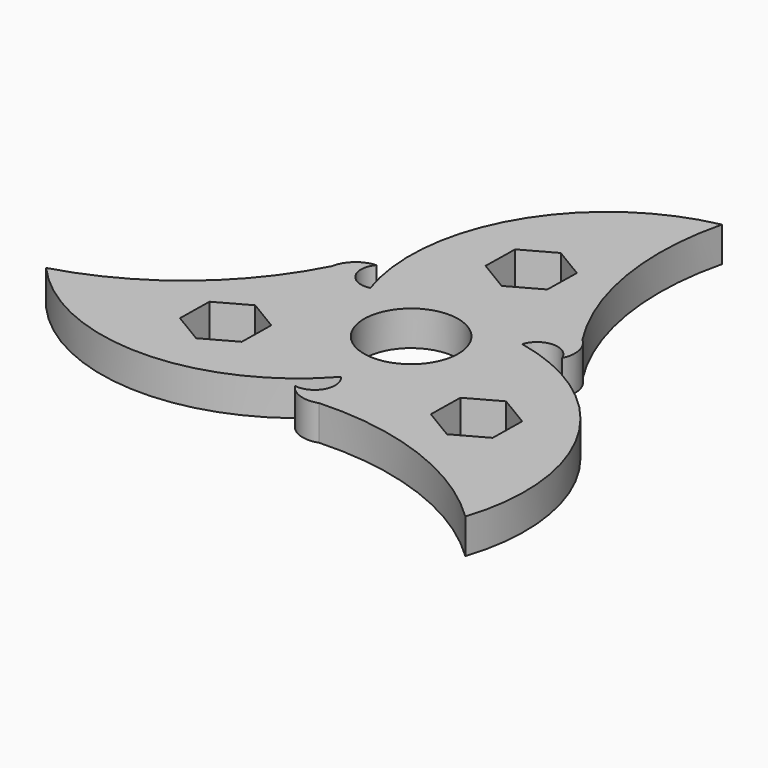
from build123d import *

# Parameters (mm, degrees)
F0_R     = 9.45
F1_DEPTH = 7


with BuildPart() as f1:
    # F0 (on Top) → F1 (new body)
    with BuildSketch(Plane.XY):
        with BuildLine():
            ThreePointArc((-24.555476, 10.805503), (-38.89385, -6.957617), (-59.095755, -17.587779))
            ThreePointArc((-59.095755, -17.587779), (-29.547878, -30.85808), (0, -17.587779))
            ThreePointArc((0, -17.587779), (0.616641, -22.365553), (-3.718256, -24.466991))
            ThreePointArc((-3.718256, -24.466991), (-0.778036, -26.710105), (2.919898, -26.668418))
            ThreePointArc((2.919898, -26.668418), (25.472398, -30.204253), (44.779341, -42.384536))
            ThreePointArc((44.779341, -42.384536), (41.49782, -10.160173), (15.231463, 8.79389))
            ThreePointArc((15.231463, 8.79389), (19.060817, 11.716804), (23.048163, 9.013391))
            ThreePointArc((23.048163, 9.013391), (23.520647, 12.681254), (21.635578, 15.862915))
            ThreePointArc((21.635578, 15.862915), (13.421452, 37.16187), (14.316414, 59.972315))
            ThreePointArc((14.316414, 59.972315), (-11.949942, 41.018252), (-15.231463, 8.79389))
            ThreePointArc((-15.231463, 8.79389), (-19.677458, 10.64875), (-19.329907, 15.453599))
            ThreePointArc((-19.329907, 15.453599), (-22.742611, 14.028851), (-24.555476, 10.805503))
        make_face()
        Polygon((-25.88408, -21.526539), (-32.098543, -17.792513), (-31.972013, -10.543617), (-25.63102, -7.028748), (-19.416557, -10.762774), (-19.543087, -18.011669), align=None, mode=Mode.SUBTRACT)
        Circle(F0_R, mode=Mode.SUBTRACT)
        Polygon((31.58457, -11.653002), (31.45804, -18.901897), (25.117047, -22.416767), (18.902584, -18.682741), (19.029114, -11.433845), (25.370107, -7.918976), align=None, mode=Mode.SUBTRACT)
        Polygon((-5.70049, 33.179541), (0.640503, 36.69441), (6.854966, 32.960384), (6.728436, 25.711489), (0.387443, 22.196619), (-5.82702, 25.930645), align=None, mode=Mode.SUBTRACT)
    extrude(amount=F1_DEPTH)


solid = f1.part
